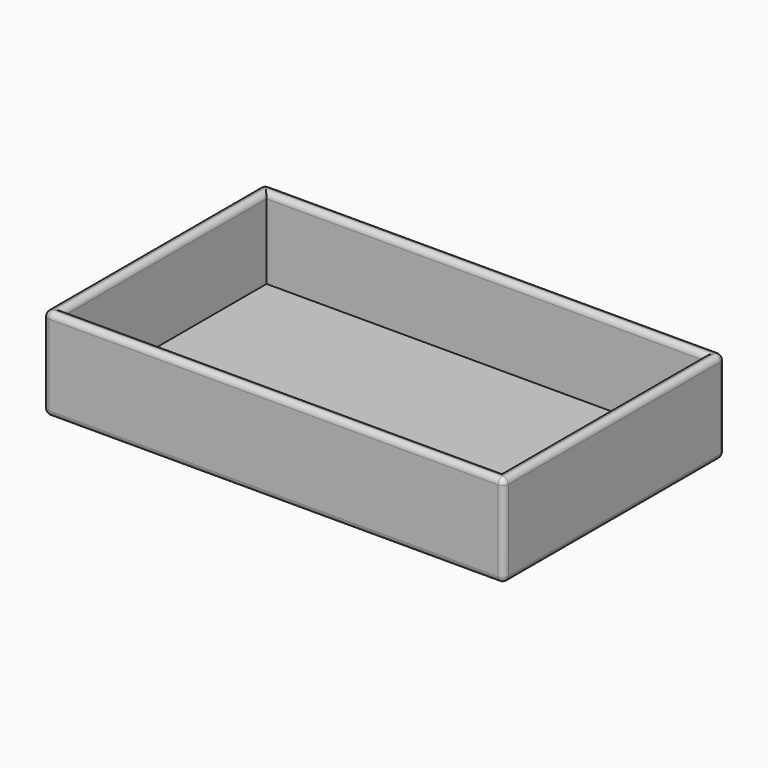
from build123d import *

# Parameters (mm, degrees)
F0_W     = 127
F0_H     = 76.2
F1_DEPTH = 25.4
F2_W     = 120.65
F2_H     = 69.85
F3_DEPTH = 22.225
F4_R     = 1.5748


with BuildPart() as f1:
    # F0 (on Top) → F1 (new body)
    with BuildSketch(Plane.XY):
        with Locations((6.366314, 2.805781)):
            Rectangle(F0_W, F0_H)
    extrude(amount=-F1_DEPTH)

    # F2 (on face) → F3 (cut)
    with BuildSketch(Plane.XY):
        with Locations((6.366314, 2.805781)):
            Rectangle(F2_W, F2_H)
    extrude(amount=-F3_DEPTH, mode=Mode.SUBTRACT)

    # F4
    f4_edges = [f1.edges().sort_by_distance(p)[0] for p in [
        (-57.133686, 2.805781, 0),
        (6.366314, -35.294219, 0),
        (69.866314, 2.805781, 0),
        (6.366314, 40.905781, 0),
        (6.366314, 37.730781, 0),
        (-53.958686, 2.805781, 0),
        (6.366314, -32.119219, 0),
        (66.691314, 2.805781, 0),
        (69.866314, -35.294219, -12.7),
        (-57.133686, -35.294219, -12.7),
        (6.366314, -35.294219, -25.4),
        (69.866314, 2.805781, -25.4),
        (69.866314, 40.905781, -12.7),
        (-57.133686, 40.905781, -12.7),
        (6.366314, 40.905781, -25.4),
        (-57.133686, 2.805781, -25.4),
    ]]
    fillet(f4_edges, radius=F4_R)


solid = f1.part
